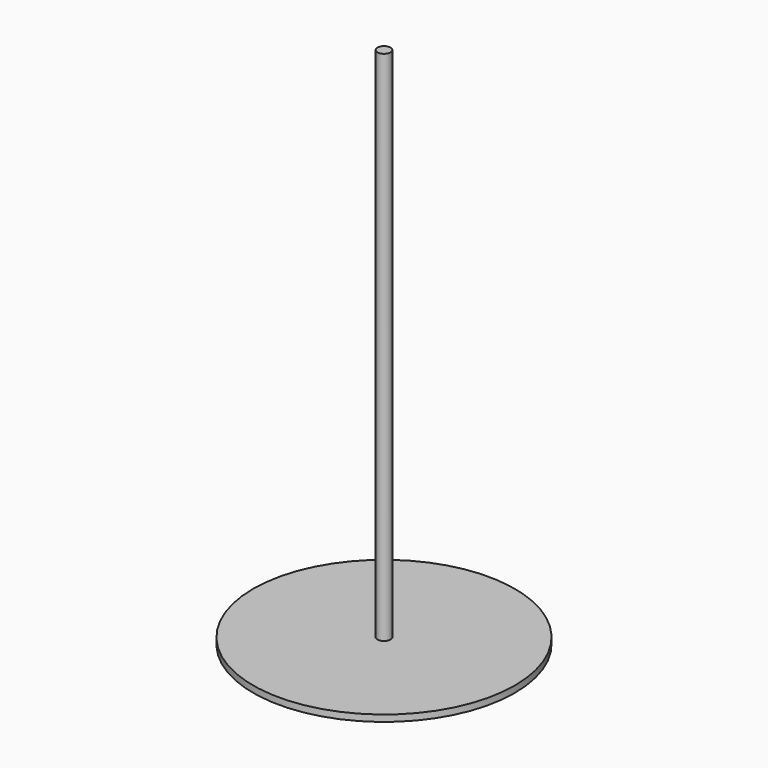
from build123d import *

# Parameters (mm, degrees)
F0_R     = 0.5
F1_DEPTH = 42.5
F0_R_2   = 10
F0_R_3   = 9.75
F2_DEPTH = 0.5
F3_R     = 9.9989455161
F3_R_2   = 0.5
F4_DEPTH = 0.5
F5_DEPTH = 0.05
F6_DEPTH = 0.06
F7_DEPTH = 2.5


with BuildPart() as f1:
    # F0 (on Top) → F1 (new body)
    with BuildSketch(Plane.XY):
        with Locations((2.0042229444, 6.3791351343)):
            Circle(F0_R)
    extrude(amount=F1_DEPTH)

    # F7 (cut): a face of the model
    f7_faces = [f1.faces().sort_by_distance(p)[0] for p in [
        (2.0042229444, 6.3791351343, 42.5),
    ]]
    extrude(f7_faces, amount=-F7_DEPTH, mode=Mode.SUBTRACT)


with BuildPart() as f2:
    # F0 (on Top) → F2 (new body)
    with BuildSketch(Plane.XY):
        with Locations((2.0042229444, 6.3791351343)):
            Circle(F0_R_2)
        with Locations((2.0042229444, 6.3791351343)):
            Circle(F0_R_3, mode=Mode.SUBTRACT)
    extrude(amount=F2_DEPTH)


with BuildPart() as f4:
    # F3 (on face) → F4 (new body)
    with BuildSketch(Plane(origin=(0, 0, 0), x_dir=(1, 0, 0), z_dir=(0, 0, -1))):
        with Locations((2.0042229444, -6.3791351343)):
            Circle(F3_R)
        with Locations((2.0042229444, -6.3791351343)):
            Circle(F3_R_2, mode=Mode.SUBTRACT)
    extrude(amount=-F4_DEPTH)


with BuildPart() as f5:
    # F5 (new): a face of the model
    f5_faces = [f4.part.faces().sort_by_distance(p)[0] for p in [
        (-7.7119096846, 6.3791351343, 0),
    ]]
    extrude(f5_faces, amount=F5_DEPTH)

    # F6 (cut): a face of the model
    f6_faces = [f5.faces().sort_by_distance(p)[0] for p in [
        (-7.7119096846, 6.3791351343, -0.05),
    ]]
    extrude(f6_faces, amount=-F6_DEPTH, mode=Mode.SUBTRACT)


solid = Compound([f1.part, f2.part, f4.part])
